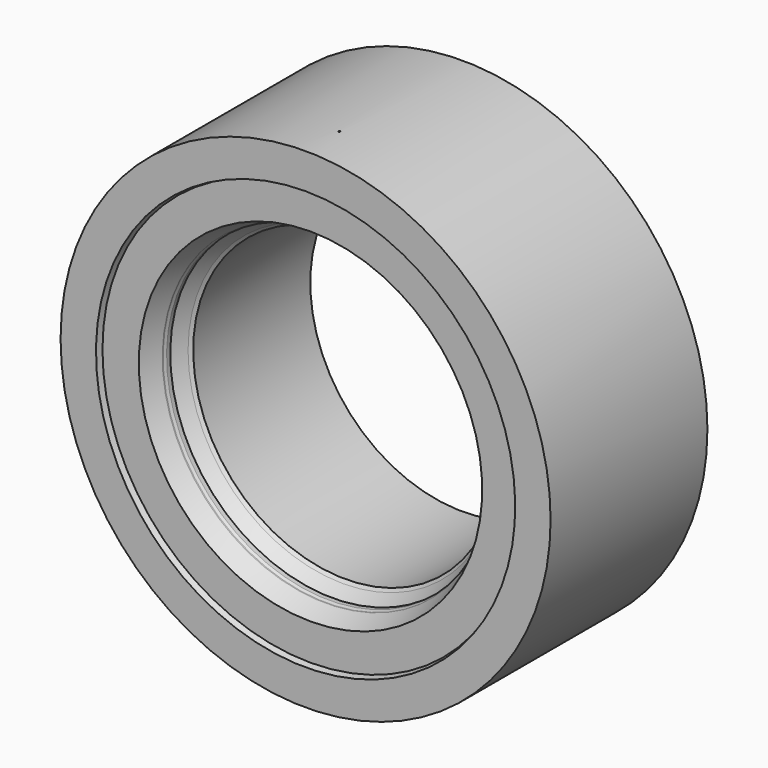
from build123d import *

# Parameters (mm, degrees)
F0_R     = 380.9365
F0_R_2   = 236.5375
F1_DEPTH = 304.8
F6_R     = 1.27
F7_DEPTH = 380.9375


with BuildPart() as f1:
    # F0 (on Front) → F1 (new body)
    with BuildSketch(Plane.XZ):
        Circle(F0_R)
        Circle(F0_R_2, mode=Mode.SUBTRACT)
    extrude(amount=-F1_DEPTH)

    # F2 (on Right) → F3 (revolve, cut)
    with BuildSketch(Plane.YZ):
        Polygon((-0.674657, 0), (0, 0), (9.525, 0), (9.525, 323.444068), (0, 325.9074), (-38.13795, 325.9074), align=None)
    revolve(axis=Axis((0, -111.905819, 0), (0, -1, 0)), mode=Mode.SUBTRACT)

    # F4 (on Right) → F5 (revolve, cut)
    with BuildSketch(Plane.YZ):
        Polygon((39.294728, 254.3556), (9.525, 266.9921), (-83.954796, 266.9921), (-48.076838, 187.997639), (83.789648, 229.984577), (72.7964, 240.977825), (52.705, 252.5776), (45.438306, 252.5776), (41.2496, 254.3556), align=None)
    revolve(axis=Axis((0, 0, 0), (0, -1, 0)), mode=Mode.SUBTRACT)

    # F6 (on Top) → F7 (cut, through all)
    with BuildSketch(Plane.XY):
        with Locations((0, 65.6082)):
            Circle(F6_R)
    extrude(amount=F7_DEPTH, mode=Mode.SUBTRACT)


solid = f1.part
